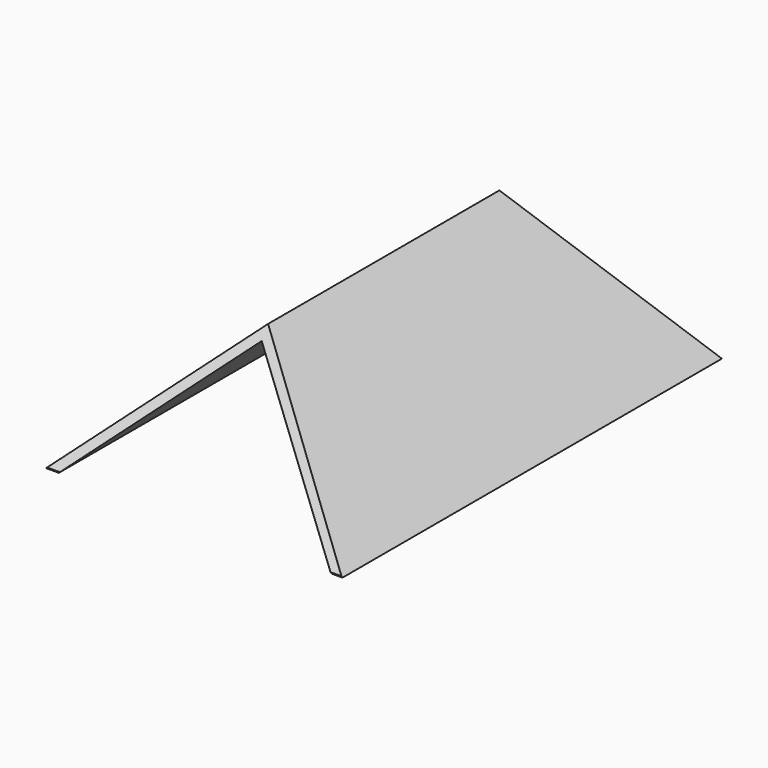
from build123d import *

# Parameters (mm, degrees)
F1_DEPTH      = 203.2
F3_DEPTH      = 124.968
F3_DEPTH_BACK = 110.49
F5_DEPTH      = 83.566
F5_DEPTH_BACK = 103.124


with BuildPart() as f1:
    # F0 (on Front) → F1 (new body)
    with BuildSketch(Plane.XZ):
        Polygon((63.5, -8.2080368082), (0, 50.8), (-63.5, -8.2080368082), (-58.0332870326, -8.2080368082), (0, 45.72), (58.8067129674, -8.2080368082), align=None)
    extrude(amount=F1_DEPTH)

    # F2 (on Right) → F3 (cut, two sides)
    with BuildSketch(Plane.YZ) as f3_sk:
        Polygon((0, -8.2080368082), (0, 51.2279631918), (-40.090088207, 51.2279631918), align=None)
    extrude(amount=-F3_DEPTH, mode=Mode.SUBTRACT)
    extrude(f3_sk.sketch, amount=F3_DEPTH_BACK, mode=Mode.SUBTRACT)

    # F4 (on Right) → F5 (cut, two sides)
    with BuildSketch(Plane.YZ) as f5_sk:
        Polygon((-203.4754604101, 51.2279631918), (-203.4754604101, -8.2080368082), (-163.3853722031, 51.2279631918), align=None)
    extrude(amount=-F5_DEPTH, mode=Mode.SUBTRACT)
    extrude(f5_sk.sketch, amount=F5_DEPTH_BACK, mode=Mode.SUBTRACT)


solid = f1.part
